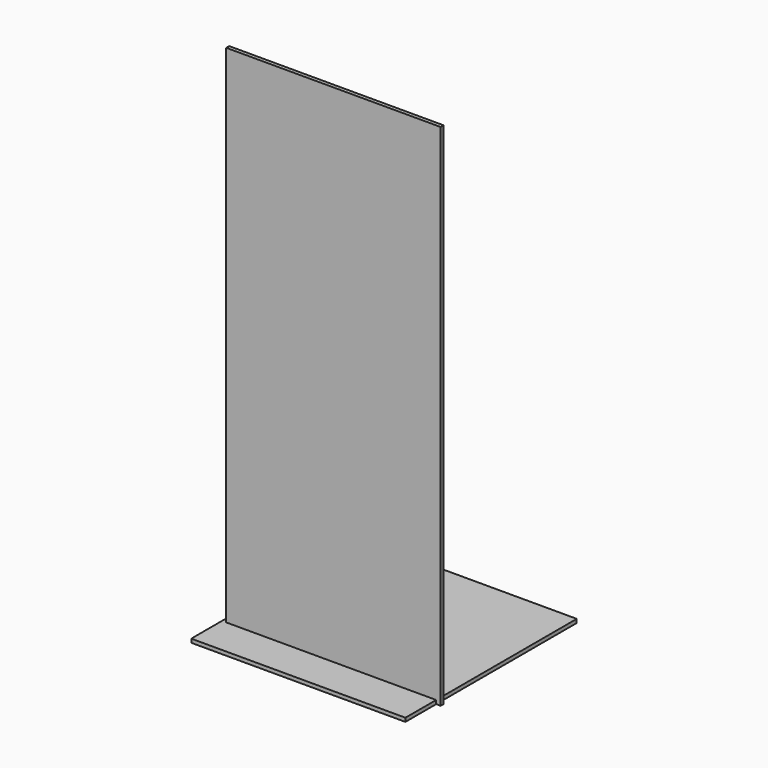
from build123d import *

# Parameters (mm, degrees)
F0_W     = 580
F0_H     = 10
F2_DEPTH = 1380
F1_W     = 560
F1_H     = 10
F3_DEPTH = 1380
F4_W     = 580
F4_H     = 580
F5_DEPTH = 10


with BuildPart() as f2:
    # F0 (on Top) → F2 (new body)
    with BuildSketch(Plane.XY):
        with Locations((11.601957, -52.981148)):
            Rectangle(F0_W, F0_H)
    extrude(amount=F2_DEPTH)


with BuildPart() as f3:
    # F1 (on Top) → F3 (new body)
    with BuildSketch(Plane.XY):
        with Locations((22.400156, -52.913452)):
            Rectangle(F1_W, F1_H)
    extrude(amount=F3_DEPTH)


with BuildPart() as f5:
    # F4 (on Top) → F5 (new body)
    with BuildSketch(Plane.XY):
        with Locations((0.297172, 127.884418)):
            Rectangle(F4_W, F4_H)
    extrude(amount=F5_DEPTH)


solid = Compound([f2.part, f3.part, f5.part])
